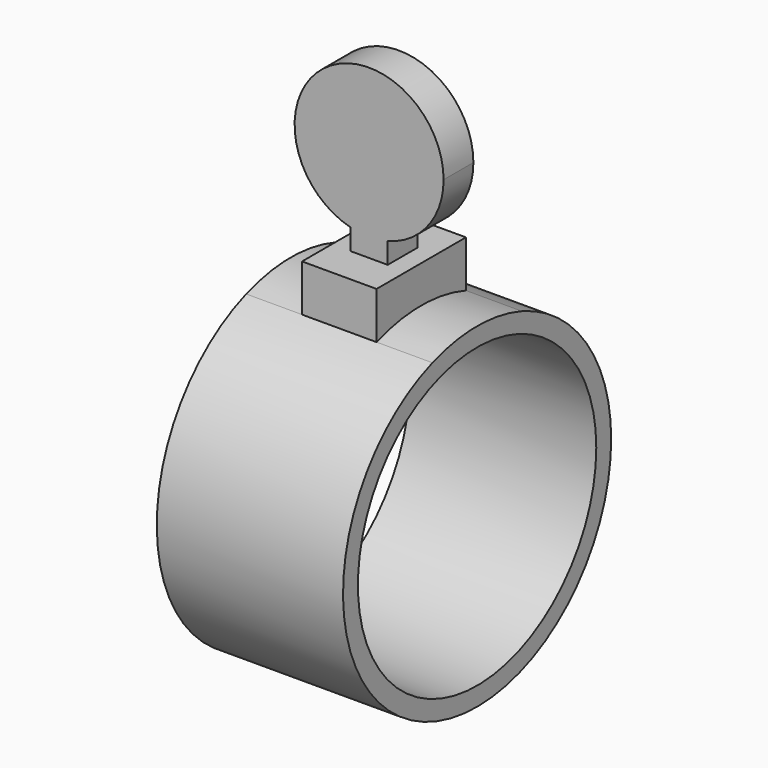
from build123d import *

# Parameters (mm, degrees)
F0_R     = 40
F1_DEPTH = 25
F2_DEPTH = 10
F4_DEPTH = 5


with BuildPart() as f1:
    # F0 (on Right) → F1 (new body, symmetric)
    with BuildSketch(Plane.YZ):
        with BuildLine():
            ThreePointArc((-15, 42.426407), (-25.980762, -36.742346), (45, 0))
            ThreePointArc((45, 0), (36.742346, 25.980762), (15, 42.426407))
            ThreePointArc((15, 42.426407), (0, 45), (-15, 42.426407))
        make_face()
        Circle(F0_R, mode=Mode.SUBTRACT)
    extrude(amount=F1_DEPTH, both=True)

    # F0 (on Right) → F2 (join, symmetric)
    with BuildSketch(Plane.YZ):
        with BuildLine():
            ThreePointArc((-15, 42.426407), (0, 45), (15, 42.426407))
            Line((15, 42.426407), (15, 55))
            Line((15, 55), (-15, 55))
            Line((-15, 55), (-15, 42.426407))
        make_face()
    extrude(amount=F2_DEPTH, both=True)

    # F3 (on Front) → F4 (join, symmetric)
    with BuildSketch(Plane.XZ):
        with BuildLine():
            ThreePointArc((-5, 60.635083), (0, 60), (5, 60.635083))
            ThreePointArc((5, 60.635083), (15.811388, 67.752551), (20, 80))
            ThreePointArc((20, 80), (-12.247449, 95.811388), (-5, 60.635083))
        make_face()
        with BuildLine():
            Line((-5, 55), (5, 55))
            Line((5, 55), (5, 60.635083))
            ThreePointArc((5, 60.635083), (0, 60), (-5, 60.635083))
            Line((-5, 60.635083), (-5, 55))
        make_face()
    extrude(amount=F4_DEPTH, both=True)


solid = f1.part
